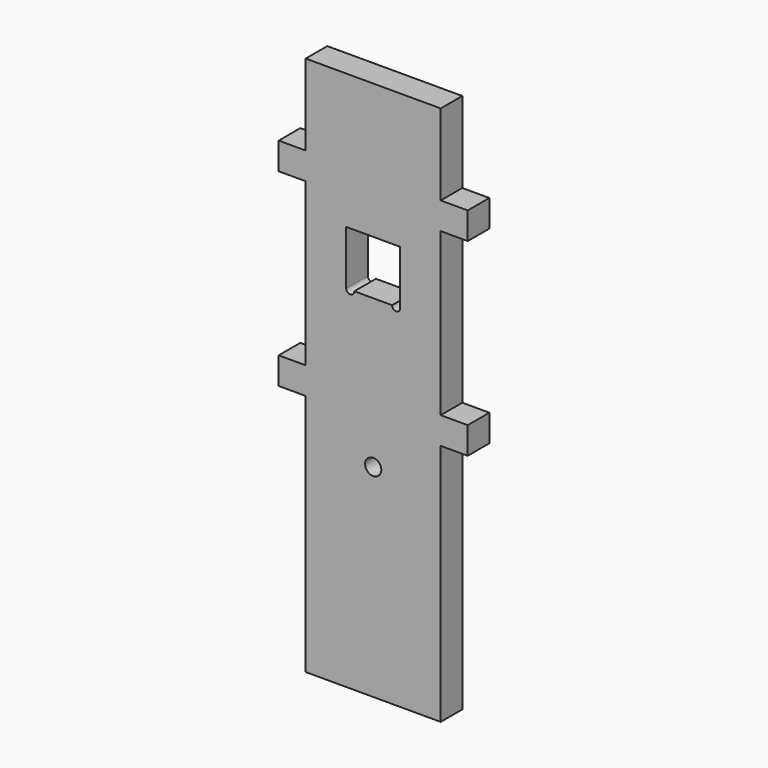
from build123d import *

# Parameters (mm, degrees)
F0_W     = 50
F0_H     = 200
F1_DEPTH = 10
F2_R     = 3
F3_DEPTH = 25
F5_DEPTH = 25
F6_W     = 10
F6_H     = 10
F7_DEPTH = 10


with BuildPart() as f1:
    # F0 (on Front) → F1 (new body)
    with BuildSketch(Plane.XZ):
        Rectangle(F0_W, F0_H)
    extrude(amount=F1_DEPTH)

    # F2 (on face) → F3 (cut)
    with BuildSketch(Plane.XZ.offset(10)):
        with Locations((0, -25)):
            Circle(F2_R)
    extrude(amount=-F3_DEPTH, mode=Mode.SUBTRACT)

    # F4 (on face) → F5 (cut)
    with BuildSketch(Plane.XZ.offset(10)):
        with BuildLine():
            Line((10, 50), (-10, 50))
            Line((-10, 50), (-10, 30))
            ThreePointArc((-10, 30), (-8.5, 28.5), (-7, 30))
            Line((-7, 30), (7, 30))
            ThreePointArc((7, 30), (8.5, 28.5), (10, 30))
            Line((10, 30), (10, 50))
        make_face()
    extrude(amount=-F5_DEPTH, mode=Mode.SUBTRACT)

    # F6 (on face) → F7 (join)
    with BuildSketch(Plane.XZ.offset(10)):
        with Locations((-30, 65)):
            Rectangle(F6_W, F6_H)
        with Locations((30, 65)):
            Rectangle(F6_W, F6_H)
        with Locations((-30, -5)):
            Rectangle(F6_W, F6_H)
        with Locations((30, -5)):
            Rectangle(F6_W, F6_H)
    extrude(amount=-F7_DEPTH)


solid = f1.part
